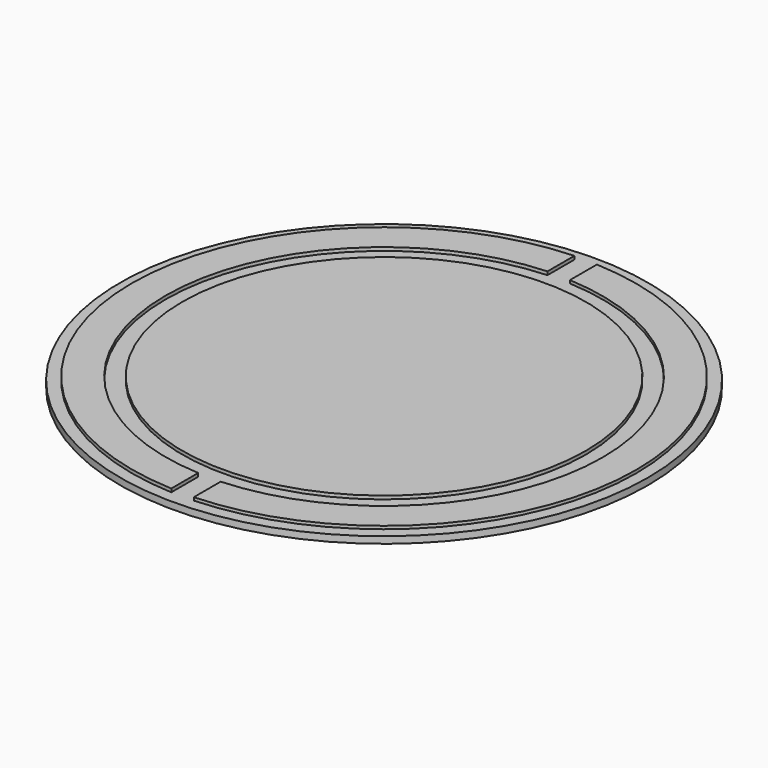
from build123d import *

# Parameters (mm, degrees)
F1_DEPTH = 3
F2_DEPTH = 2.9
F0_R     = 60
F3_DEPTH = 3
F0_R_2   = 78.5
F4_DEPTH = 2


with BuildPart() as f1:
    # F0 (on Top) → F1 (new body)
    with BuildSketch(Plane.XY):
        with BuildLine():
            Line((-3.345542, 64.913846), (-3.345542, 74.925345))
            ThreePointArc((-3.345542, 74.925345), (-75, 0), (-3.345542, -74.925345))
            Line((-3.345542, -74.925345), (-3.345542, -64.913846))
            ThreePointArc((-3.345542, -64.913846), (-65, 0), (-3.345542, 64.913846))
        make_face()
    extrude(amount=F1_DEPTH)


with BuildPart() as f2:
    # F0 (on Top) → F2 (new body)
    with BuildSketch(Plane.XY):
        with BuildLine():
            Line((3.345542, -64.913846), (3.345542, -74.925345))
            ThreePointArc((3.345542, -74.925345), (75, 0), (3.345542, 74.925345))
            Line((3.345542, 74.925345), (3.345542, 64.913846))
            ThreePointArc((3.345542, 64.913846), (65, 0), (3.345542, -64.913846))
        make_face()
    extrude(amount=F2_DEPTH)


with BuildPart() as f3:
    # F0 (on Top) → F3 (new body)
    with BuildSketch(Plane.XY):
        Circle(F0_R)
    extrude(amount=F3_DEPTH)


with BuildPart() as f4:
    # F0 (on Top) → F4 (new body)
    with BuildSketch(Plane.XY):
        Circle(F0_R_2)
        with BuildLine():
            ThreePointArc((-3.345542, -74.925345), (-75, 0), (-3.345542, 74.925345))
            Line((-3.345542, 74.925345), (-3.345542, 64.913846))
            ThreePointArc((-3.345542, 64.913846), (-65, 0), (-3.345542, -64.913846))
            Line((-3.345542, -64.913846), (-3.345542, -74.925345))
        make_face(mode=Mode.SUBTRACT)
        Circle(F0_R, mode=Mode.SUBTRACT)
        with BuildLine():
            ThreePointArc((3.345542, 74.925345), (75, 0), (3.345542, -74.925345))
            Line((3.345542, -74.925345), (3.345542, -64.913846))
            ThreePointArc((3.345542, -64.913846), (65, 0), (3.345542, 64.913846))
            Line((3.345542, 64.913846), (3.345542, 74.925345))
        make_face(mode=Mode.SUBTRACT)
    extrude(amount=F4_DEPTH)


solid = Compound([f1.part, f2.part, f3.part, f4.part])
